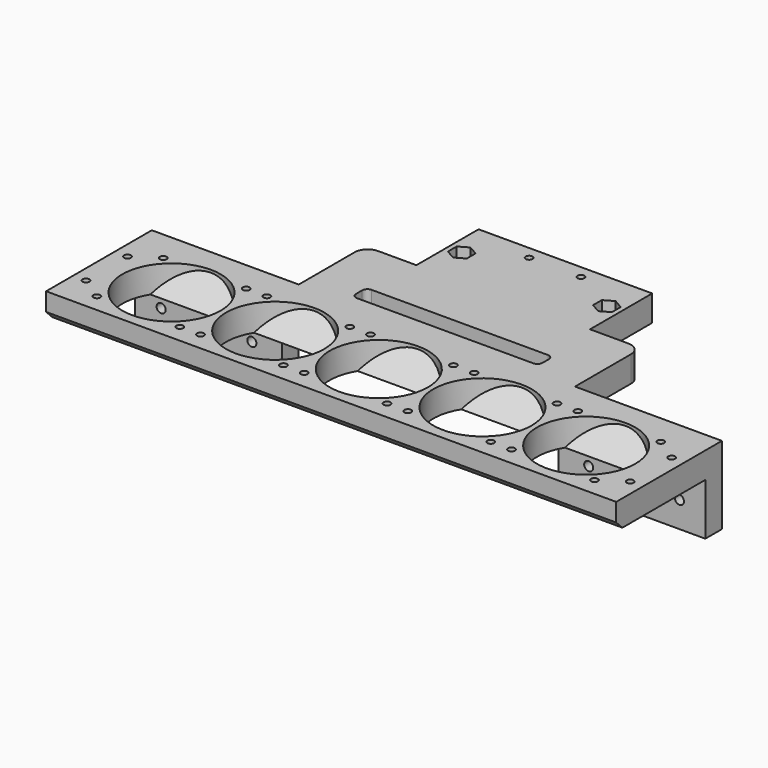
from build123d import *

# Parameters (mm, degrees)
SKETCH_W        = 220
SKETCH_H        = 40
PAD_DEPTH       = 10
SKETCH001_R     = 19
POCKET_DEPTH    = 10
PAD001_DEPTH    = 220
PAD002_DEPTH    = 220
SKETCH004_R     = 1.325
POCKET001_DEPTH = 10
SKETCH005_R     = 1.325
POCKET002_DEPTH = 10
SKETCH006_W     = 106.6
SKETCH006_H     = 10
PAD003_DEPTH    = 70
SKETCH007_W     = 19.8
SKETCH007_H     = 10
POCKET003_DEPTH = 30
SKETCH008_W     = 56.7
SKETCH008_H     = 10
PAD004_DEPTH    = 8
SKETCH009_W     = 56.7
SKETCH009_H     = 8
PAD005_DEPTH    = 20
SKETCH010_R     = 2.375
POCKET004_DEPTH = 10
POCKET005_DEPTH = 4
FILLET_R        = 5
SKETCH012_R     = 1.75
POCKET006_DEPTH = 8
SKETCH013_R     = 2.875
POCKET007_DEPTH = 4
SKETCH014_R     = 1.325
POCKET008_DEPTH = 10
SKETCH015_W     = 72
SKETCH015_H     = 7
POCKET009_DEPTH = 10
FILLET001_R     = 2
SKETCH016_W     = 220
SKETCH016_H     = 10
PAD006_DEPTH    = 3
CHAMFER_SIZE    = 2.99


with BuildPart() as part:
    # Sketch → Pad (new body)
    with BuildSketch(Plane.XY):
        Rectangle(SKETCH_W, SKETCH_H)
    extrude(amount=PAD_DEPTH)

    # Sketch001 (on Face6 of Pad) → Pocket (cut)
    with BuildSketch(Plane.XY.offset(10)):
        with Locations((-80, 0)):
            Circle(SKETCH001_R)
        with Locations((-40, 0)):
            Circle(SKETCH001_R)
        Circle(SKETCH001_R)
        with Locations((40, 0)):
            Circle(SKETCH001_R)
        with Locations((80, 0)):
            Circle(SKETCH001_R)
    extrude(amount=-POCKET_DEPTH, mode=Mode.SUBTRACT)

    # Sketch002 (on Face3 of Pocket) → Pad001 (join)
    with BuildSketch(Plane.YZ.offset(110)):
        Polygon((-10, 0), (-20, 0), (-20, 10), align=None)
    extrude(amount=-PAD001_DEPTH)

    # Sketch003 (on Face3 of Pad001) → Pad002 (join)
    with BuildSketch(Plane.YZ.offset(110)):
        Polygon((20, 10), (10, 0), (20, 0), align=None)
    extrude(amount=-PAD002_DEPTH)

    # Sketch004 (on Face5 of Pad002) → Pocket001 (cut)
    with BuildSketch(Plane.XY.offset(10)):
        with Locations((-96, 16)):
            Circle(SKETCH004_R)
        with Locations((-96, -16)):
            Circle(SKETCH004_R)
        with Locations((-64, -16)):
            Circle(SKETCH004_R)
        with Locations((-64, 16)):
            Circle(SKETCH004_R)
        with Locations((-56, 16)):
            Circle(SKETCH004_R)
        with Locations((-56, -16)):
            Circle(SKETCH004_R)
        with Locations((-24, -16)):
            Circle(SKETCH004_R)
        with Locations((-24, 16)):
            Circle(SKETCH004_R)
        with Locations((-16, 16)):
            Circle(SKETCH004_R)
        with Locations((-16, -16)):
            Circle(SKETCH004_R)
        with Locations((16, -16)):
            Circle(SKETCH004_R)
        with Locations((16, 16)):
            Circle(SKETCH004_R)
        with Locations((24, 16)):
            Circle(SKETCH004_R)
        with Locations((24, -16)):
            Circle(SKETCH004_R)
        with Locations((56, -16)):
            Circle(SKETCH004_R)
        with Locations((56, 16)):
            Circle(SKETCH004_R)
        with Locations((64, 16)):
            Circle(SKETCH004_R)
        with Locations((64, -16)):
            Circle(SKETCH004_R)
        with Locations((96, -16)):
            Circle(SKETCH004_R)
        with Locations((96, 16)):
            Circle(SKETCH004_R)
    extrude(amount=-POCKET001_DEPTH, mode=Mode.SUBTRACT)

    # Sketch005 (on Face5 of Pocket001) → Pocket002 (cut)
    with BuildSketch(Plane.XY.offset(10)):
        with Locations((-105, 10)):
            Circle(SKETCH005_R)
        with Locations((-105, -10)):
            Circle(SKETCH005_R)
        with Locations((105, 10)):
            Circle(SKETCH005_R)
        with Locations((105, -10)):
            Circle(SKETCH005_R)
    extrude(amount=-POCKET002_DEPTH, mode=Mode.SUBTRACT)

    # Sketch006 (on Face1 of Pocket002) → Pad003 (join)
    with BuildSketch(Plane(origin=(0, 20, 0), x_dir=(-1, 0, 0), z_dir=(0, 1, 0))):
        with Locations((0, 5)):
            Rectangle(SKETCH006_W, SKETCH006_H)
    extrude(amount=PAD003_DEPTH)

    # Sketch007 → Pocket003 (cut)
    with BuildSketch(Plane(origin=(0, 90, 0), x_dir=(-1, 0, 0), z_dir=(0, 1, 0))):
        with Locations((-43.4, 5)):
            Rectangle(SKETCH007_W, SKETCH007_H)
        with Locations((43.4, 5)):
            Rectangle(SKETCH007_W, SKETCH007_H)
    extrude(amount=-POCKET003_DEPTH, mode=Mode.SUBTRACT)

    # Sketch008 (on Face1 of Pocket003) → Pad004 (join)
    with BuildSketch(Plane(origin=(0, 20, 0), x_dir=(-1, 0, 0), z_dir=(0, 1, 0))):
        with Locations((-81.65, 5)):
            Rectangle(SKETCH008_W, SKETCH008_H)
        with Locations((81.65, 5)):
            Rectangle(SKETCH008_W, SKETCH008_H)
    extrude(amount=PAD004_DEPTH)

    # Sketch009 (on Face14 of Pad004) → Pad005 (join)
    with BuildSketch(Plane(origin=(0, 0, 0), x_dir=(1, 0, 0), z_dir=(0, 0, -1))):
        with Locations((-81.65, -24)):
            Rectangle(SKETCH009_W, SKETCH009_H)
        with Locations((81.65, -24)):
            Rectangle(SKETCH009_W, SKETCH009_H)
    extrude(amount=PAD005_DEPTH)

    # Sketch010 (on Face15 of Pad005) → Pocket004 (cut)
    with BuildSketch(Plane(origin=(0, 0, 0), x_dir=(1, 0, 0), z_dir=(0, 0, -1))):
        with Locations((-28, -75)):
            Circle(SKETCH010_R)
        with Locations((28, -75)):
            Circle(SKETCH010_R)
    extrude(amount=-POCKET004_DEPTH, mode=Mode.SUBTRACT)

    # Sketch011 (on Face87 of Pocket004) → Pocket005 (cut)
    with BuildSketch(Plane.XY.offset(10)):
        Polygon((-24.35, 72.892672), (-24.35, 77.107328), (-28, 79.214657), (-31.65, 77.107328), (-31.65, 72.892672), (-28, 70.785343), align=None)
        Polygon((31.65, 77.107328), (28, 79.214657), (24.35, 77.107328), (24.35, 72.892672), (28, 70.785343), (31.65, 72.892672), align=None)
    extrude(amount=-POCKET005_DEPTH, mode=Mode.SUBTRACT)

    # Fillet
    fillet_edges = [part.edges().sort_by_distance(p)[0] for p in [
        (53.3, 60, 5),
        (-53.3, 60, 5),
    ]]
    fillet(fillet_edges, radius=FILLET_R)

    # Sketch012 (on Face19 of Fillet) → Pocket006 (cut)
    with BuildSketch(Plane(origin=(0, 28, 0), x_dir=(-1, 0, 0), z_dir=(0, 1, 0))):
        with Locations((-100, -10)):
            Circle(SKETCH012_R)
        with Locations((-65, -10)):
            Circle(SKETCH012_R)
        with Locations((65, -10)):
            Circle(SKETCH012_R)
        with Locations((100, -10)):
            Circle(SKETCH012_R)
    extrude(amount=-POCKET006_DEPTH, mode=Mode.SUBTRACT)

    # Sketch013 (on Face19 of Pocket006) → Pocket007 (cut)
    with BuildSketch(Plane(origin=(0, 28, 0), x_dir=(-1, 0, 0), z_dir=(0, 1, 0))):
        with Locations((-100, -10)):
            Circle(SKETCH013_R)
        with Locations((-65, -10)):
            Circle(SKETCH013_R)
        with Locations((65, -10)):
            Circle(SKETCH013_R)
        with Locations((100, -10)):
            Circle(SKETCH013_R)
    extrude(amount=-POCKET007_DEPTH, mode=Mode.SUBTRACT)

    # Sketch014 (on Face17 of Pocket007) → Pocket008 (cut)
    with BuildSketch(Plane.XY.offset(10)):
        with Locations((-10, 85)):
            Circle(SKETCH014_R)
        with Locations((10, 85)):
            Circle(SKETCH014_R)
    extrude(amount=-POCKET008_DEPTH, mode=Mode.SUBTRACT)

    # Sketch015 (on Face19 of Pocket008) → Pocket009 (cut)
    with BuildSketch(Plane.XY.offset(10)):
        with Locations((0, 35.5)):
            Rectangle(SKETCH015_W, SKETCH015_H)
    extrude(amount=-POCKET009_DEPTH, mode=Mode.SUBTRACT)

    # Fillet001
    fillet001_edges = [part.edges().sort_by_distance(p)[0] for p in [
        (36, 39, 5),
        (-36, 39, 5),
        (-36, 32, 5),
        (36, 32, 5),
    ]]
    fillet(fillet001_edges, radius=FILLET001_R)

    # Sketch016 (on Face104 of Fillet001) → Pad006 (join)
    with BuildSketch(Plane.XZ.offset(20)):
        with Locations((0, 5)):
            Rectangle(SKETCH016_W, SKETCH016_H)
    extrude(amount=PAD006_DEPTH)

    # Chamfer
    chamfer_edges = [part.edges().sort_by_distance(p)[0] for p in [
        (0, -23, 0),
    ]]
    chamfer(chamfer_edges, length=CHAMFER_SIZE)


solid = part.part
